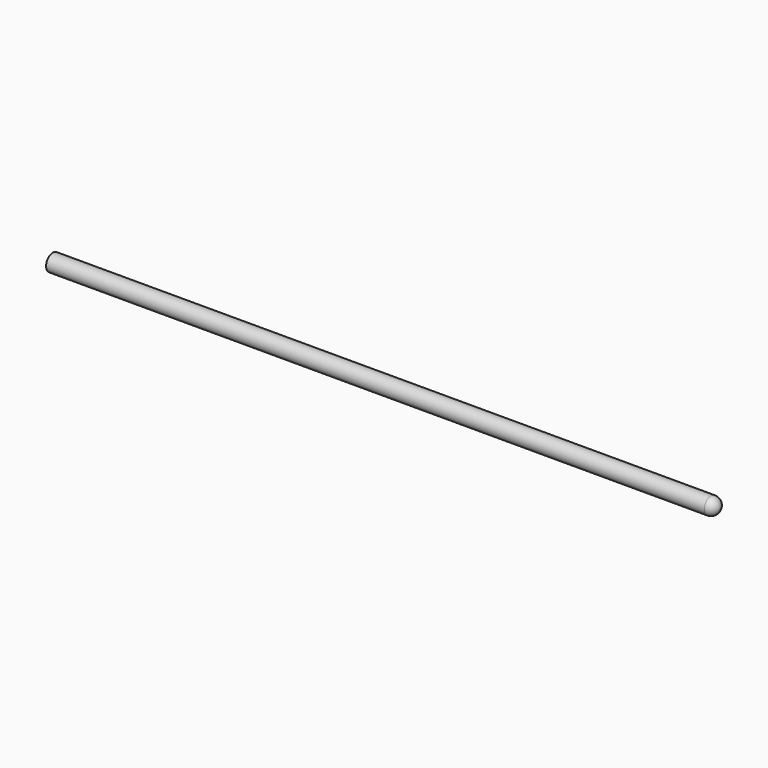
from build123d import *

# Parameters (mm, degrees)
F0_W = 140
F0_H = 1.8


with BuildPart() as f1:
    # F0 (on Front) → F1 (revolve)
    with BuildSketch(Plane.XZ):
        with Locations((56.893384, 0.9)):
            Rectangle(F0_W, F0_H)
        with BuildLine():
            Line((126.893384, 1.8), (126.893384, 0))
            Line((126.893384, 0), (128.693384, 0))
            ThreePointArc((128.693384, 0), (128.166176, 1.272792), (126.893384, 1.8))
        make_face()
    revolve(axis=Axis((56.893384, 0, 0), (-1, 0, 0)))


solid = f1.part
